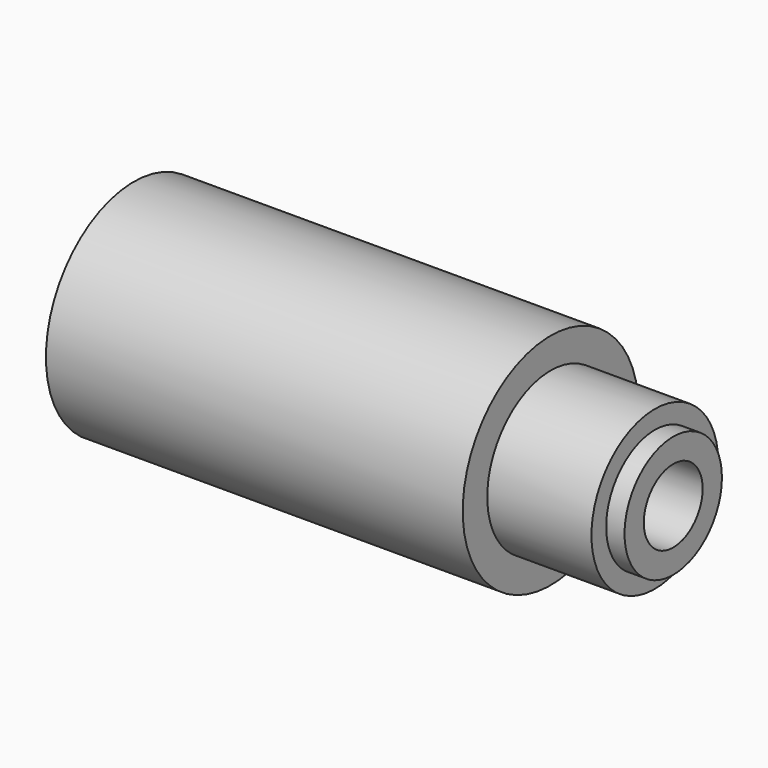
from build123d import *

# Parameters (mm, degrees)
F2_R     = 6
F3_DEPTH = 88.001


with BuildPart() as f1:
    # F0 (on Top) → F1 (revolve)
    with BuildSketch(Plane.XY):
        Polygon((0, 17.928575), (0, 0), (88, 0), (88, 9.928573), (85, 9.928573), (85, 12.928574), (68, 12.928574), (68, 17.928575), align=None)
    revolve(axis=Axis((44, 0, 0), (1, 0, 0)))

    # F2 (on Right) → F3 (cut, through all)
    with BuildSketch(Plane.YZ):
        Circle(F2_R)
    extrude(amount=F3_DEPTH, mode=Mode.SUBTRACT)


solid = f1.part
